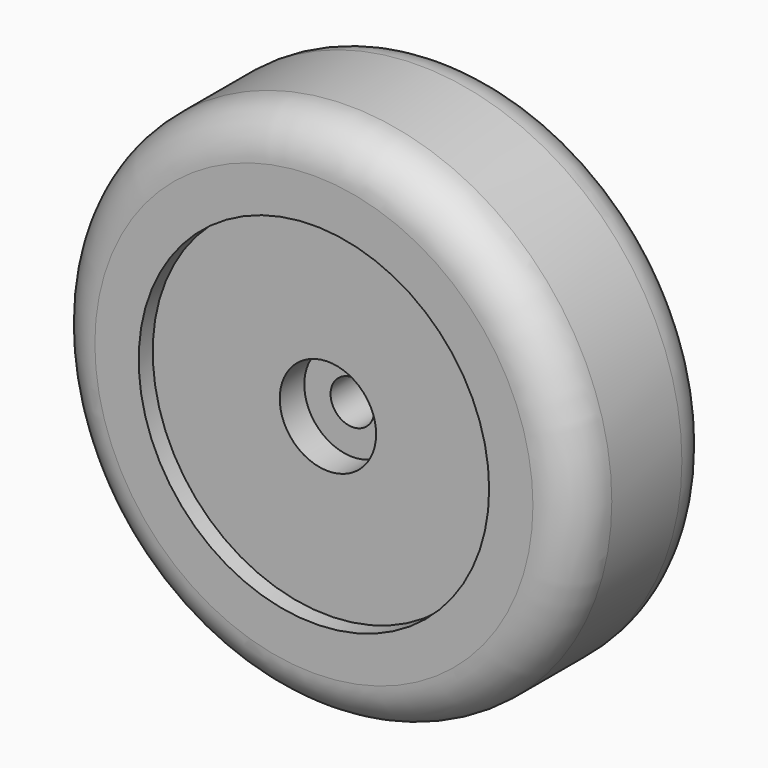
from build123d import *

# Parameters (mm, degrees)
F0_R      = 60
F1_DEPTH  = 40
F3_R      = 10
F2_R      = 40
F4_DEPTH  = 4
F5_R      = 40
F6_DEPTH  = 4
F7_R      = 11
F8_DEPTH  = 7
F9_R      = 11
F10_DEPTH = 7
F12_D     = 10


with BuildPart() as f1:
    # F0 (on Front) → F1 (new body)
    with BuildSketch(Plane.XZ):
        Circle(F0_R)
    extrude(amount=F1_DEPTH)

    # F3
    f3_edges = [f1.edges().sort_by_distance(p)[0] for p in [
        (-60, 0, 0),
        (60, -20, 0),
        (-60, -40, 0),
    ]]
    fillet(f3_edges, radius=F3_R)

    # F2 (on face) → F4 (cut)
    with BuildSketch(Plane.XZ.offset(40)):
        Circle(F2_R)
    extrude(amount=-F4_DEPTH, mode=Mode.SUBTRACT)

    # F5 (on face) → F6 (cut)
    with BuildSketch(Plane(origin=(0, 0, 0), x_dir=(-1, 0, 0), z_dir=(0, 1, 0))):
        Circle(F5_R)
    extrude(amount=-F6_DEPTH, mode=Mode.SUBTRACT)

    # F7 (on face) → F8 (cut)
    with BuildSketch(Plane(origin=(0, -4, 0), x_dir=(-1, 0, 0), z_dir=(0, 1, 0))):
        Circle(F7_R)
    extrude(amount=-F8_DEPTH, mode=Mode.SUBTRACT)

    # F9 (on face) → F10 (cut)
    with BuildSketch(Plane.XZ.offset(36)):
        Circle(F9_R)
    extrude(amount=-F10_DEPTH, mode=Mode.SUBTRACT)

    # F12 (through all)
    with Locations(Plane(origin=(0, -4, 0), x_dir=(-1, 0, 0), z_dir=(0, 1, 0))):
        with Locations((0, 0)):
            Hole(F12_D / 2)


solid = f1.part
